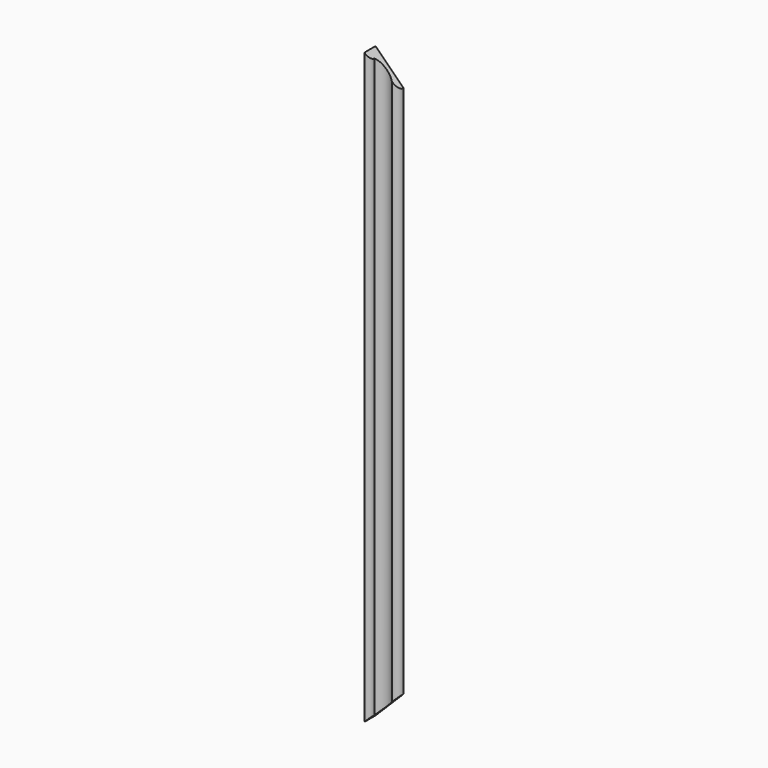
from build123d import *

# Parameters (mm, degrees)
PAD024_DEPTH = 40
PAD023_DEPTH = 40
PAD022_DEPTH = 630


with BuildPart() as body_decoration_left_cut_top002:
    # Sketch024 → Pad024 (new body)
    with BuildSketch(Plane(origin=(60, 0, 690), x_dir=(1, 0, 0), z_dir=(0, -1, 0))):
        Polygon((0, 0), (40, -40), (40, 0), align=None)
    extrude(amount=PAD024_DEPTH)


with BuildPart() as body_decoration_left_cut_bottom002:
    # Sketch023 → Pad023 (new body)
    with BuildSketch(Plane(origin=(60, 0, 60), x_dir=(1, 0, 0), z_dir=(0, -1, 0))):
        Polygon((0, 0), (40, 40), (40, 0), align=None)
    extrude(amount=PAD023_DEPTH)


with BuildPart() as cut_decoration_left002:
    # Sketch022 → Pad022 (new body)
    with BuildSketch(Plane(origin=(60, 0, 60), x_dir=(1, 0, 0), z_dir=(0, 0, 1))):
        with BuildLine():
            Line((30, 0), (0, 0))
            Line((0, -15), (0, 0))
            ThreePointArc((0, -15), (4.242641, -13.242641), (6, -9))
            ThreePointArc((23, -7), (14.080692, -4.435882), (6, -9))
            ThreePointArc((23, -7), (27.949747, -4.949747), (30, 0))
        make_face()
    extrude(amount=PAD022_DEPTH)

    # Cut010: cut Body, Decoration, Left, Cut, Bottom002
    add(body_decoration_left_cut_bottom002.part, mode=Mode.SUBTRACT)

    # Cut011: cut Body, Decoration, Left, Cut, Top002
    add(body_decoration_left_cut_top002.part, mode=Mode.SUBTRACT)


solid = cut_decoration_left002.part
